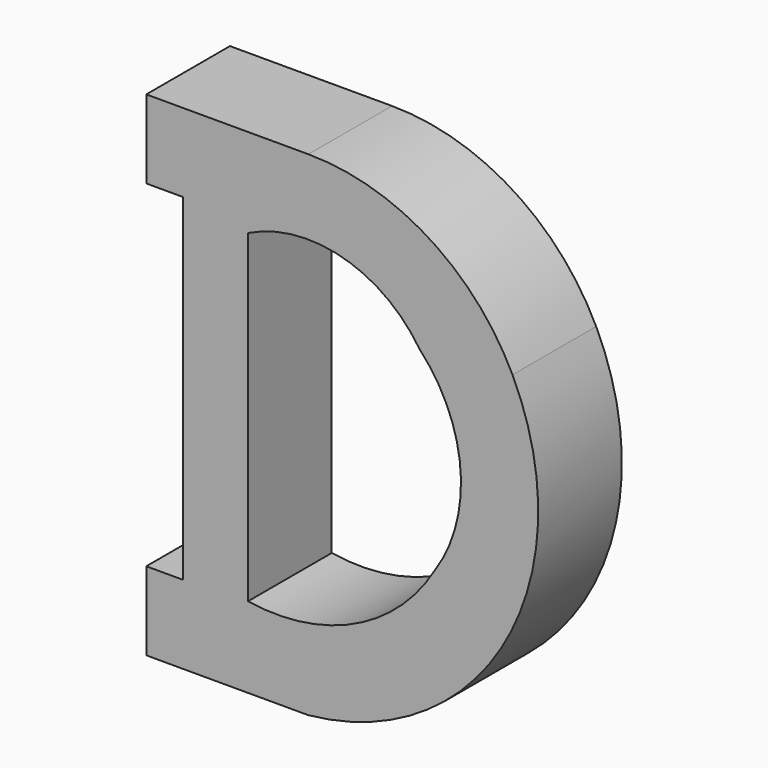
from build123d import *

# Parameters (mm, degrees)
F2_DEPTH = 25.4
F3_DEPTH = 25.4


with BuildPart() as f2:
    # F0 (on Front) → F2 (new body)
    with BuildSketch(Plane.XZ):
        with BuildLine():
            Line((-35.52934, 56.602269), (-54.57934, 56.602269))
            Line((-54.57934, 56.602269), (-74.89934, 56.602269))
            Line((-74.89934, 56.602269), (-74.89934, 37.552269))
            Line((-74.89934, 37.552269), (-66.00934, 37.552269))
            Line((-66.00934, 37.552269), (-66.00934, -44.297053))
            Line((-66.00934, -44.297053), (-74.89934, -44.297053))
            Line((-74.89934, -44.297053), (-74.89934, -63.347053))
            Line((-74.89934, -63.347053), (-54.57934, -63.347053))
            Line((-54.57934, -63.347053), (-35.52934, -63.347053))
            ThreePointArc((-35.52934, -63.347053), (12.434607, -31.81126), (14.052876, 25.56842))
            ThreePointArc((14.052876, 25.56842), (-6.282563, 48.204086), (-35.52934, 56.602269))
        make_face()
    extrude(amount=F2_DEPTH)

    # F1 (on face) → F3 (cut)
    with BuildSketch(Plane.XZ):
        with BuildLine():
            ThreePointArc((-8.555471, 23.758758), (-27.23608, 37.256461), (-50.172315, 35.002078))
            Line((-50.172315, 35.002078), (-50.172315, -43.737922))
            ThreePointArc((-50.172315, -43.737922), (-24.314904, -40.142394), (-4.973349, -22.60849))
            ThreePointArc((-4.973349, -22.60849), (1.43209, 1.208358), (-8.555471, 23.758758))
        make_face()
    extrude(amount=F3_DEPTH, mode=Mode.SUBTRACT)


solid = f2.part
